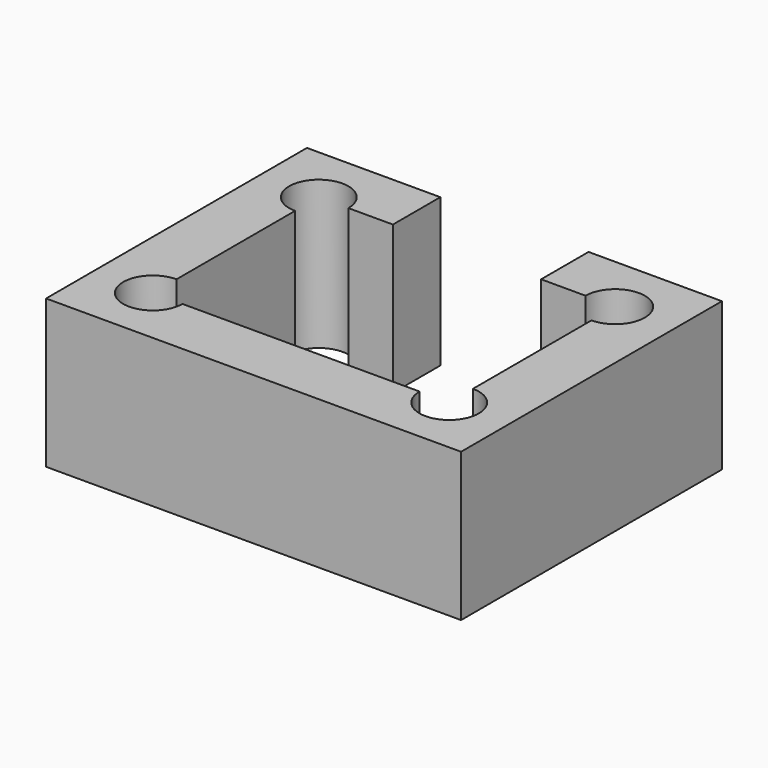
from build123d import *

# Parameters (mm, degrees)
F1_DEPTH = 10
F3_DEPTH = 10.001


with BuildPart() as f1:
    # F0 (on Top) → F1 (new body)
    with BuildSketch(Plane.XY):
        Polygon((10, 7), (10, -7), (-10, -7), (-10, 7), (-5, 7), (-5, 11), (-14, 11), (-14, -11), (14, -11), (14, 11), (5, 11), (5, 7), align=None)
    extrude(amount=F1_DEPTH)

    # F2 (on Top) → F3 (cut, through all)
    with BuildSketch(Plane.XY):
        with BuildLine():
            Line((-8, -7), (-10, -7))
            Line((-10, -7), (-10, -5))
            ThreePointArc((-10, -5), (-11.414214, -8.414214), (-8, -7))
        make_face()
        with BuildLine():
            Line((-10, -5), (-10, -7))
            Line((-10, -7), (-8, -7))
            ThreePointArc((-8, -7), (-8.585786, -5.585786), (-10, -5))
        make_face()
        with BuildLine():
            ThreePointArc((-8, 7), (-11.414214, 8.414214), (-10, 5))
            Line((-10, 5), (-10, 7))
            Line((-10, 7), (-8, 7))
        make_face()
        with BuildLine():
            Line((-10, 7), (-10, 5))
            ThreePointArc((-10, 5), (-8.585786, 5.585786), (-8, 7))
            Line((-8, 7), (-10, 7))
        make_face()
        with BuildLine():
            ThreePointArc((8, 7), (8.585786, 5.585786), (10, 5))
            Line((10, 5), (10, 7))
            Line((10, 7), (8, 7))
        make_face()
        with BuildLine():
            Line((10, 7), (10, 5))
            ThreePointArc((10, 5), (11.414214, 5.585786), (12, 7))
            ThreePointArc((12, 7), (10, 9), (8, 7))
            Line((8, 7), (10, 7))
        make_face()
        with BuildLine():
            ThreePointArc((10, -5), (8.585786, -5.585786), (8, -7))
            Line((8, -7), (10, -7))
            Line((10, -7), (10, -5))
        make_face()
        with BuildLine():
            Line((10, -7), (8, -7))
            ThreePointArc((8, -7), (10, -9), (12, -7))
            ThreePointArc((12, -7), (11.414214, -5.585786), (10, -5))
            Line((10, -5), (10, -7))
        make_face()
    extrude(amount=F3_DEPTH, mode=Mode.SUBTRACT)


solid = f1.part
